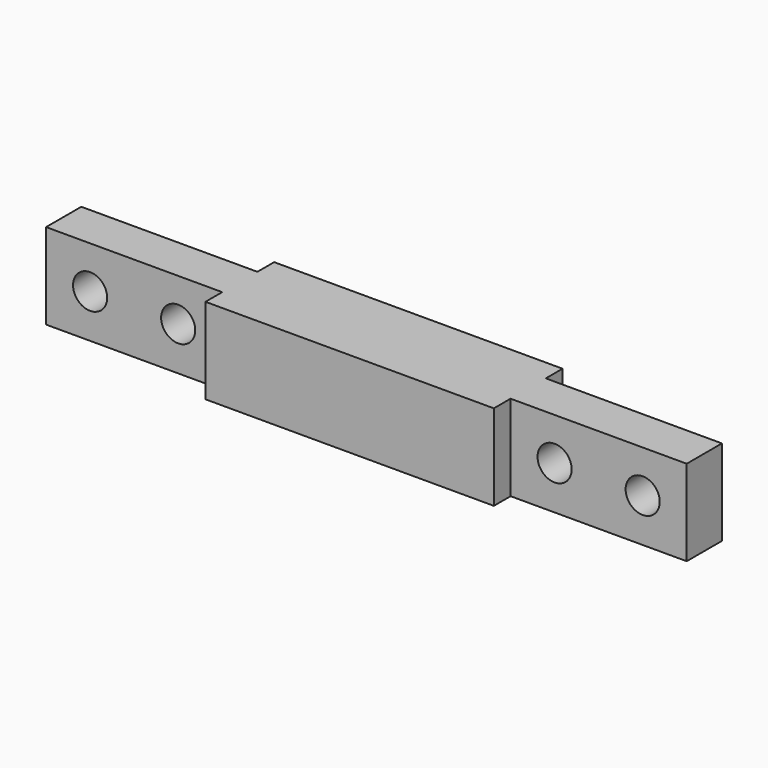
from build123d import *

# Parameters (mm, degrees)
PAD_DEPTH       = 7.8
SKETCH001_R     = 1.55
POCKET_DEPTH    = 5.901
POCKET001_DEPTH = 5.901


with BuildPart() as part:
    # Sketch → Pad (new body)
    with BuildSketch(Plane.XY):
        Polygon((29.1, -2), (29.1, 2), (13.1, 2), (13.1, 3.9), (-13.1, 3.9), (-13.1, 2), (-29.1, 2), (-29.1, -2), (-13.1, -2), (-13.1, -3.9), (13.1, -3.9), (13.1, -2), align=None)
    extrude(amount=PAD_DEPTH)

    # Sketch001 (on Face3 of Pad) → Pocket (cut, through all)
    with BuildSketch(Plane.XZ.offset(2)):
        with Locations((-25.1, 3.95)):
            Circle(SKETCH001_R)
        with Locations((-17.1, 3.95)):
            Circle(SKETCH001_R)
        with Locations((17.1, 3.95)):
            Circle(SKETCH001_R)
        with Locations((25.1, 3.95)):
            Circle(SKETCH001_R)
    extrude(amount=-POCKET_DEPTH, mode=Mode.SUBTRACT)

    # Sketch001 (on Face3 of Pad) → Pocket001 (cut, through all)
    with BuildSketch(Plane.XZ.offset(2)):
        with Locations((-25.1, 3.95)):
            Circle(SKETCH001_R)
        with Locations((-17.1, 3.95)):
            Circle(SKETCH001_R)
        with Locations((17.1, 3.95)):
            Circle(SKETCH001_R)
        with Locations((25.1, 3.95)):
            Circle(SKETCH001_R)
    extrude(amount=-POCKET001_DEPTH, mode=Mode.SUBTRACT)


solid = part.part
